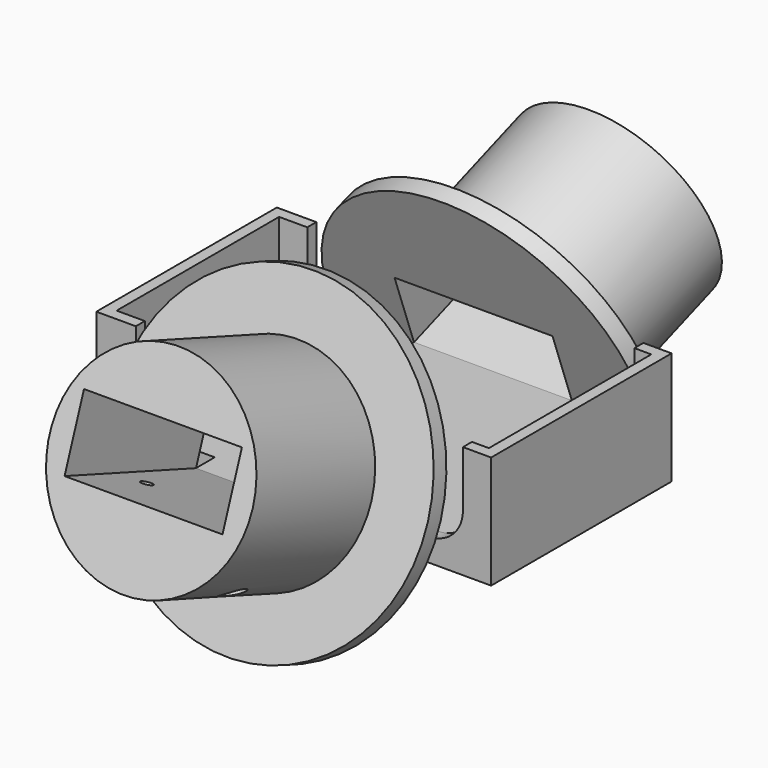
from build123d import *

# Parameters (mm, degrees)
BOX005_W               = 66
BOX005_H               = 36
BOX005_DEPTH           = 20
BOX006_W               = 58
BOX006_H               = 40
BOX006_DEPTH           = 20
BOX004_W               = 70
BOX004_H               = 40
BOX004_DEPTH           = 20
BOX002_W               = 28
BOX002_H               = 58
BOX002_DEPTH           = 4.1
BOX003_W               = 70
BOX003_H               = 40
BOX003_DEPTH           = 4.1
CYLINDER007_R          = 1
CYLINDER007_DEPTH      = 36
CYLINDER006_R          = 2
CYLINDER006_DEPTH      = 36
BOX_W                  = 16
BOX_H                  = 26
BOX_DEPTH              = 12
FILLET006_R            = 1
BOX001_W               = 28
BOX001_H               = 51
BOX001_DEPTH           = 12.6
CYLINDER005_R          = 18
CYLINDER005_DEPTH      = 31
CYLINDER005_ROLL_ANGLE = 90.0000000001
CYLINDER008_R          = 18
CYLINDER008_DEPTH      = 3
CYLINDER008_ROLL_ANGLE = 90.0000000001
CYLINDER009_R          = 28
CYLINDER009_DEPTH      = 3
CYLINDER009_ROLL_ANGLE = 90.0000000001
FUSION005_ROLL_ANGLE   = -20
FILLET_R               = 6
FILLET008_R            = 6


with BuildPart() as cubo005:
    # Box005 → Box005 (new body)
    with BuildSketch(Plane(origin=(-33, 27, -17), x_dir=(1, 0, 0), z_dir=(0, 0, 1))):
        with Locations((33, 18)):
            Rectangle(BOX005_W, BOX005_H)
    extrude(amount=BOX005_DEPTH)


with BuildPart() as fusion006:
    # Box006 → Box006 (new body)
    with BuildSketch(Plane(origin=(-28, 25, -17), x_dir=(1, 0, 0), z_dir=(0, 0, 1))):
        with Locations((29, 20)):
            Rectangle(BOX006_W, BOX006_H)
    extrude(amount=BOX006_DEPTH)

    # Fusion006: union Cubo005
    add(cubo005.part)


with BuildPart() as cut009:
    # Box004 → Box004 (new body)
    with BuildSketch(Plane(origin=(-35, 25, -17), x_dir=(1, 0, 0), z_dir=(0, 0, 1))):
        with Locations((35, 20)):
            Rectangle(BOX004_W, BOX004_H)
    extrude(amount=BOX004_DEPTH)

    # Cut009: cut Fusion006
    add(fusion006.part, mode=Mode.SUBTRACT)


with BuildPart() as cubo002:
    # Box002 → Box002 (new body)
    with BuildSketch(Plane(origin=(-14, 16, -17), x_dir=(1, 0, 0), z_dir=(0, 0, 1))):
        with Locations((14, 29)):
            Rectangle(BOX002_W, BOX002_H)
    extrude(amount=BOX002_DEPTH)


with BuildPart() as fusion007:
    # Box003 → Box003 (new body)
    with BuildSketch(Plane(origin=(-35, 25, -17), x_dir=(1, 0, 0), z_dir=(0, 0, 1))):
        with Locations((35, 20)):
            Rectangle(BOX003_W, BOX003_H)
    extrude(amount=BOX003_DEPTH)

    # Fusion007: union Cut009, Cubo002
    add(cut009.part)
    add(cubo002.part)


with BuildPart() as cilindro007:
    # Cylinder007 → Cylinder007 (new body)
    with BuildSketch(Plane(origin=(9, 5.75, -40), x_dir=(1, 0, 0), z_dir=(0, 0, 1))):
        Circle(CYLINDER007_R)
    extrude(amount=CYLINDER007_DEPTH)


with BuildPart() as fusion003:
    # Cylinder006 → Cylinder006 (new body)
    with BuildSketch(Plane(origin=(9, 5.75, -45), x_dir=(1, 0, 0), z_dir=(0, 0, 1))):
        Circle(CYLINDER006_R)
    extrude(amount=CYLINDER006_DEPTH)

    # Fusion003: union Cilindro007
    add(cilindro007.part)


with BuildPart() as fusion004:
    # Part__Mirroring: instance of Fusion003
    add(fusion003.part.mirror(Plane(origin=(0, 0, 0), x_dir=(0, -1, 0), z_dir=(1, 0, 0))))

    # Fusion004: union Fusion003
    add(fusion003.part)


with BuildPart() as fillet006:
    # Box → Box (new body)
    with BuildSketch(Plane(origin=(-8, -8, -5), x_dir=(1, 0, 0), z_dir=(0, 0, 1))):
        with Locations((8, 13)):
            Rectangle(BOX_W, BOX_H)
    extrude(amount=BOX_DEPTH)

    # Fillet006
    fillet006_edges = [fillet006.edges().sort_by_distance(p)[0] for p in [
        (-8, 5, 7),
        (8, 5, 7),
    ]]
    fillet(fillet006_edges, radius=FILLET006_R)


with BuildPart() as fusion002:
    # Box001 → Box001 (new body)
    with BuildSketch(Plane(origin=(-14, -12, -5), x_dir=(1, 0, 0), z_dir=(0, 0, 1))):
        with Locations((14, 25.5)):
            Rectangle(BOX001_W, BOX001_H)
    extrude(amount=BOX001_DEPTH)

    # Fusion002: union Fillet006
    add(fillet006.part)


with BuildPart() as cut004:
    # Cylinder005 → Cylinder005 (new body)
    with BuildSketch(Plane.XY):
        Circle(CYLINDER005_R)
    extrude(amount=CYLINDER005_DEPTH)


with BuildPart() as cut004_1:
    # Cylinder005 roll: moved
    add(cut004.part.rotate(Axis((0, 0, 0), (1, 0, 0)), CYLINDER005_ROLL_ANGLE))


with BuildPart() as cut004_2:
    # Cylinder005 placement: moved
    add(cut004_1.part.moved(Location((0, 24, 0))))

    # Cut003: cut Fusion002
    add(fusion002.part, mode=Mode.SUBTRACT)

    # Cut004: cut Fusion004
    add(fusion004.part, mode=Mode.SUBTRACT)


with BuildPart() as cilindro008:
    # Cylinder008 → Cylinder008 (new body)
    with BuildSketch(Plane.XY):
        Circle(CYLINDER008_R)
    extrude(amount=CYLINDER008_DEPTH)


with BuildPart() as cilindro008_1:
    # Cylinder008 roll: moved
    add(cilindro008.part.rotate(Axis((0, 0, 0), (1, 0, 0)), CYLINDER008_ROLL_ANGLE))


with BuildPart() as cilindro008_2:
    # Cylinder008 placement: moved
    add(cilindro008_1.part.moved(Location((0, 24, 0))))


with BuildPart() as fusion005:
    # Cylinder009 → Cylinder009 (new body)
    with BuildSketch(Plane.XY):
        Circle(CYLINDER009_R)
    extrude(amount=CYLINDER009_DEPTH)


with BuildPart() as fusion005_1:
    # Cylinder009 roll: moved
    add(fusion005.part.rotate(Axis((0, 0, 0), (1, 0, 0)), CYLINDER009_ROLL_ANGLE))


with BuildPart() as fusion005_2:
    # Cylinder009 placement: moved
    add(fusion005_1.part.moved(Location((0, 24, 0))))

    # Cut005: cut Cilindro008
    add(cilindro008_2.part, mode=Mode.SUBTRACT)

    # Fusion005: union Cut004
    add(cut004_2.part)


with BuildPart() as fusion005_3:
    # Fusion005 roll: moved
    add(fusion005_2.part.rotate(Axis((0, 0, 0), (1, 0, 0)), FUSION005_ROLL_ANGLE))


with BuildPart() as fusion005_4:
    # Fusion005 placement: moved
    add(fusion005_3.part)


with BuildPart() as part_mirroring004:
    # Part__Mirroring004: instance of Fusion005
    add(fusion005_4.part.mirror(Plane(origin=(0, 45, 0), x_dir=(1, 0, 0), z_dir=(0, 1, 0))))


with BuildPart() as fillet008:
    # Fusion008 base: copy of Fusion005
    add(fusion005_4.part)

    # Fusion008: union Fusion007, Part__Mirroring004
    add(fusion007.part)
    add(part_mirroring004.part)

    # Fillet
    fillet_edges = [fillet008.edges().sort_by_distance(p)[0] for p in [
        (0, 19.352773, -17),
        (0, 70.647227, -17),
    ]]
    fillet(fillet_edges, radius=FILLET_R)

    # Fillet008
    fillet008_edges = [fillet008.edges().sort_by_distance(p)[0] for p in [
        (-28, 26, -12.9),
        (-28, 64, -12.9),
        (30, 64, -12.9),
        (30, 26, -12.9),
    ]]
    fillet(fillet008_edges, radius=FILLET008_R)


solid = fillet008.part
